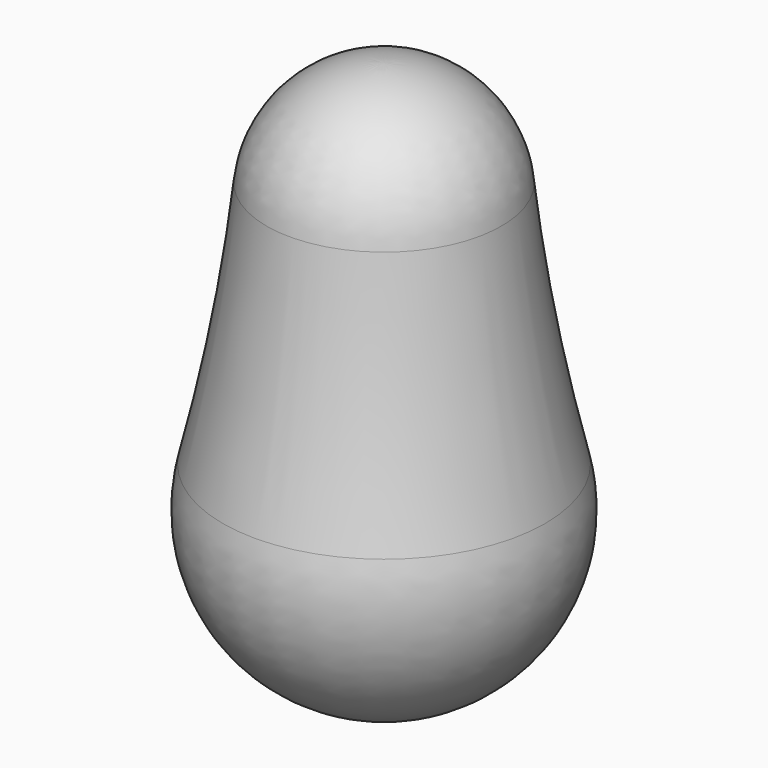
from build123d import *


with BuildPart() as f1:
    # F0 (on Front) → F1 (revolve)
    with BuildSketch(Plane.XZ):
        with BuildLine():
            Line((0, -49.667209), (0, 50.726182))
            ThreePointArc((0, 50.726182), (-14.165632, 45.299251), (-21.079288, 31.79673))
            ThreePointArc((-21.079288, 31.79673), (-24.26081, 9.442772), (-28.954327, -12.643251))
            ThreePointArc((-28.954327, -12.643251), (-23.500673, -38.212003), (0, -49.667209))
        make_face()
    revolve(axis=Axis((0, 0, 0.529486), (0, 0, -1)))


solid = f1.part
